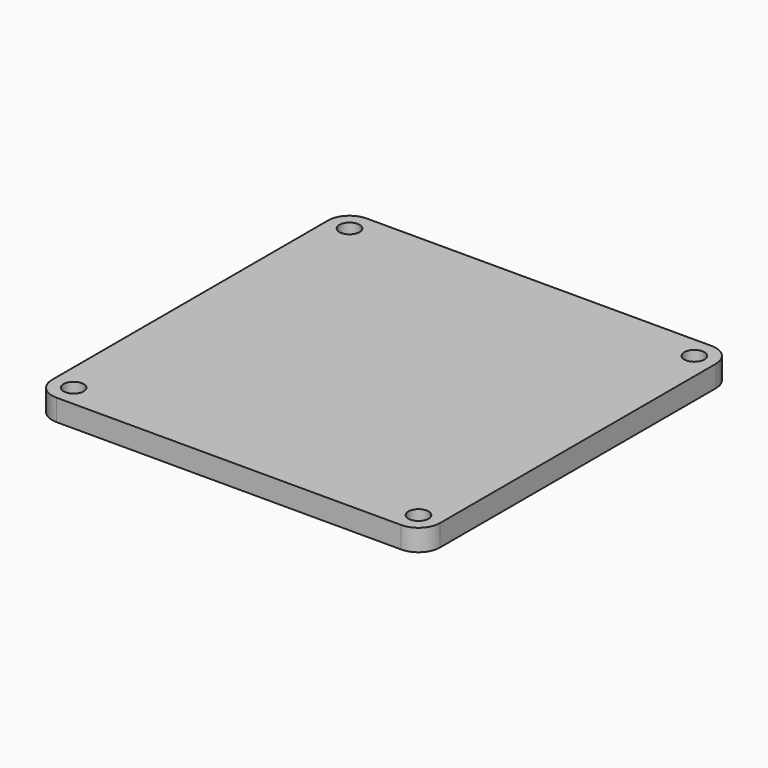
from build123d import *

# Parameters (mm, degrees)
F0_R     = 2.326918
F1_DEPTH = 5


with BuildPart() as f1:
    # F0 (on Top) → F1 (new body)
    with BuildSketch(Plane.XY):
        with BuildLine():
            Line((40, 45), (-40, 45))
            ThreePointArc((-40, 45), (-43.535534, 43.535534), (-45, 40))
            Line((-45, 40), (-45, -40))
            ThreePointArc((-45, -40), (-43.535534, -43.535534), (-40, -45))
            Line((-40, -45), (40, -45))
            ThreePointArc((40, -45), (43.535534, -43.535534), (45, -40))
            Line((45, -40), (45, 40))
            ThreePointArc((45, 40), (43.535534, 43.535534), (40, 45))
        make_face()
        with Locations((-40, -40)):
            Circle(F0_R, mode=Mode.SUBTRACT)
        with Locations((40, -40)):
            Circle(F0_R, mode=Mode.SUBTRACT)
        with Locations((-40, 40)):
            Circle(F0_R, mode=Mode.SUBTRACT)
        with BuildLine():
            ThreePointArc((-39.163858, 36.739757), (-37.518478, 37.421295), (-36.836939, 39.066675))
            Line((-36.836939, 39.066675), (36.836939, 39.066675))
            ThreePointArc((36.836939, 39.066675), (37.518478, 37.421295), (39.163858, 36.739757))
            Line((39.163858, 36.739757), (39.163858, -36.739757))
            ThreePointArc((39.163858, -36.739757), (37.518478, -37.421295), (36.836939, -39.066675))
            Line((36.836939, -39.066675), (-36.836939, -39.066675))
            ThreePointArc((-36.836939, -39.066675), (-37.518478, -37.421295), (-39.163858, -36.739757))
            Line((-39.163858, -36.739757), (-39.163858, 36.739757))
        make_face(mode=Mode.SUBTRACT)
        with Locations((40, 40)):
            Circle(F0_R, mode=Mode.SUBTRACT)
        with BuildLine():
            Line((36.836939, 39.066675), (-36.836939, 39.066675))
            ThreePointArc((-36.836939, 39.066675), (-37.518478, 37.421295), (-39.163858, 36.739757))
            Line((-39.163858, 36.739757), (-39.163858, -36.739757))
            ThreePointArc((-39.163858, -36.739757), (-37.518478, -37.421295), (-36.836939, -39.066675))
            Line((-36.836939, -39.066675), (36.836939, -39.066675))
            ThreePointArc((36.836939, -39.066675), (37.518478, -37.421295), (39.163858, -36.739757))
            Line((39.163858, -36.739757), (39.163858, 36.739757))
            ThreePointArc((39.163858, 36.739757), (37.518478, 37.421295), (36.836939, 39.066675))
        make_face()
    extrude(amount=F1_DEPTH)


solid = f1.part
